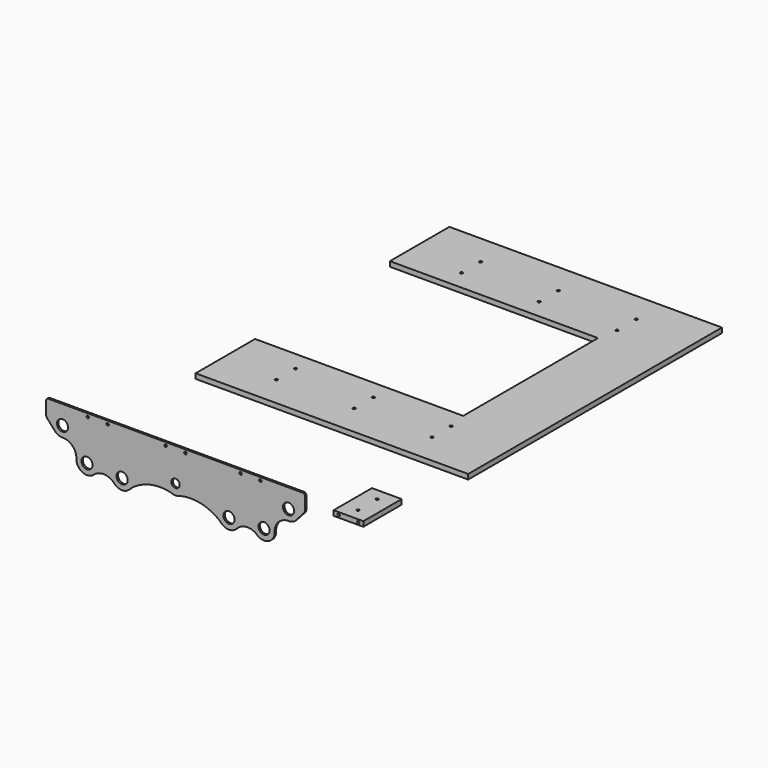
from build123d import *

# Parameters (mm, degrees)
F0_R     = 14.2875
F0_R_2   = 10.704272
F0_R_3   = 3.175
F1_DEPTH = 4.7625
F0_W     = 76.2
F0_H     = 12.7
F0_R_4   = 3.373438
F2_DEPTH = 61.37275
F3_R     = 3.373438
F4_DEPTH = 168.915817
F5_R     = 3.373438
F6_DEPTH = 12.7


with BuildPart() as f1:
    # F0 (on Front) → F1 (new body)
    with BuildSketch(Plane.XZ):
        with BuildLine():
            Line((306.53488, 50.828332), (327.547737, 74.151297))
            ThreePointArc((327.547737, 74.151297), (330.619964, 78.411042), (331.705949, 83.549587))
            Line((331.705949, 83.549587), (331.705949, 114.540323))
            ThreePointArc((331.705949, 114.540323), (329.846077, 119.030451), (325.355949, 120.890323))
            Line((325.355949, 120.890323), (0, 120.890323))
            Line((0, 120.890323), (-325.355949, 120.890323))
            ThreePointArc((-325.355949, 120.890323), (-329.846077, 119.030451), (-331.705949, 114.540323))
            Line((-331.705949, 114.540323), (-331.705949, 83.549587))
            ThreePointArc((-331.705949, 83.549587), (-330.619964, 78.411042), (-327.547737, 74.151297))
            Line((-327.547737, 74.151297), (-306.53488, 50.828332))
            ThreePointArc((-306.53488, 50.828332), (-299.564201, 46.878315), (-291.747953, 45.117837))
            ThreePointArc((-291.747953, 45.117837), (-263.807306, 34.431699), (-254.15377, 6.117699))
            ThreePointArc((-254.15377, 6.117699), (-238.956787, -16.459524), (-211.795694, -14.740702))
            ThreePointArc((-211.795694, -14.740702), (-183.054602, -3.161557), (-155.311978, -16.96278))
            ThreePointArc((-155.311978, -16.96278), (-134.314824, -23.907464), (-115.046392, -13.052207))
            ThreePointArc((-115.046392, -13.052207), (-66.557839, 11.557269), (-12.181775, 11.458505))
            ThreePointArc((-12.181775, 11.458505), (0, 8.59572), (12.181775, 11.458505))
            ThreePointArc((12.181775, 11.458505), (66.557839, 11.557269), (115.046392, -13.052207))
            ThreePointArc((115.046392, -13.052207), (134.314824, -23.907464), (155.311978, -16.96278))
            ThreePointArc((155.311978, -16.96278), (183.054602, -3.161557), (211.795694, -14.740702))
            ThreePointArc((211.795694, -14.740702), (238.956787, -16.459524), (254.15377, 6.117699))
            ThreePointArc((254.15377, 6.117699), (263.807306, 34.431699), (291.747953, 45.117837))
            ThreePointArc((291.747953, 45.117837), (299.564201, 46.878315), (306.53488, 50.828332))
        make_face()
        with Locations((-226.87455, 8.076409)):
            Circle(F0_R, mode=Mode.SUBTRACT)
        with Locations((-136.95855, 3.313909)):
            Circle(F0_R, mode=Mode.SUBTRACT)
        with Locations((0, 35.94517)):
            Circle(F0_R_2, mode=Mode.SUBTRACT)
        with Locations((136.95855, 3.313909)):
            Circle(F0_R, mode=Mode.SUBTRACT)
        with Locations((226.87455, 8.076409)):
            Circle(F0_R, mode=Mode.SUBTRACT)
        with Locations((-289.711435, 72.391359)):
            Circle(F0_R, mode=Mode.SUBTRACT)
        with Locations((-224.775985, 112.751594)):
            Circle(F0_R_3, mode=Mode.SUBTRACT)
        with Locations((-173.975985, 112.751594)):
            Circle(F0_R_3, mode=Mode.SUBTRACT)
        with Locations((-25.4, 112.751594)):
            Circle(F0_R_3, mode=Mode.SUBTRACT)
        with Locations((25.4, 112.751594)):
            Circle(F0_R_3, mode=Mode.SUBTRACT)
        with Locations((289.711435, 72.391359)):
            Circle(F0_R, mode=Mode.SUBTRACT)
        with Locations((166.605949, 112.751594)):
            Circle(F0_R_3, mode=Mode.SUBTRACT)
        with Locations((217.405949, 112.751594)):
            Circle(F0_R_3, mode=Mode.SUBTRACT)
    extrude(amount=F1_DEPTH)


with BuildPart() as f2:
    # F0 (on Front) → F2 (new body, symmetric)
    with BuildSketch(Plane.XZ):
        with Locations((488.513883, 138.529275)):
            Rectangle(F0_W, F0_H)
        with Locations((463.113883, 138.529275)):
            Circle(F0_R_4, mode=Mode.SUBTRACT)
        with Locations((513.913883, 138.529275)):
            Circle(F0_R_4, mode=Mode.SUBTRACT)
    extrude(amount=F2_DEPTH, both=True)

    # F3 (on face) → F4 (cut, through all)
    with BuildSketch(Plane.XY.offset(144.879275)):
        with Locations((488.513883, -30.686375)):
            Circle(F3_R)
        with Locations((488.513883, 30.686375)):
            Circle(F3_R)
    extrude(amount=-F4_DEPTH, mode=Mode.SUBTRACT)


with BuildPart() as f6:
    # F5 (on Top) → F6 (new body)
    with BuildSketch(Plane.XY):
        Polygon((403.970622, 1240.542252), (-294.529378, 1240.542252), (-294.529378, 1050.042252), (238.870622, 1050.042252), (238.870622, 618.242252), (-294.529378, 618.242252), (-294.529378, 427.742252), (403.970622, 427.742252), align=None)
        with Locations((-150.993978, 507.117252)):
            Circle(F5_R, mode=Mode.SUBTRACT)
        with Locations((-150.993978, 568.483652)):
            Circle(F5_R, mode=Mode.SUBTRACT)
        with Locations((48.370622, 507.117252)):
            Circle(F5_R, mode=Mode.SUBTRACT)
        with Locations((48.370622, 568.483652)):
            Circle(F5_R, mode=Mode.SUBTRACT)
        with Locations((247.735222, 507.117252)):
            Circle(F5_R, mode=Mode.SUBTRACT)
        with Locations((247.735222, 568.483652)):
            Circle(F5_R, mode=Mode.SUBTRACT)
        with Locations((-150.993978, 1099.800852)):
            Circle(F5_R, mode=Mode.SUBTRACT)
        with Locations((-150.993978, 1161.167252)):
            Circle(F5_R, mode=Mode.SUBTRACT)
        with Locations((48.370622, 1099.800852)):
            Circle(F5_R, mode=Mode.SUBTRACT)
        with Locations((48.370622, 1161.167252)):
            Circle(F5_R, mode=Mode.SUBTRACT)
        with Locations((247.735222, 1099.800852)):
            Circle(F5_R, mode=Mode.SUBTRACT)
        with Locations((247.735222, 1161.167252)):
            Circle(F5_R, mode=Mode.SUBTRACT)
    extrude(amount=F6_DEPTH)


solid = Compound([f1.part, f2.part, f6.part])
